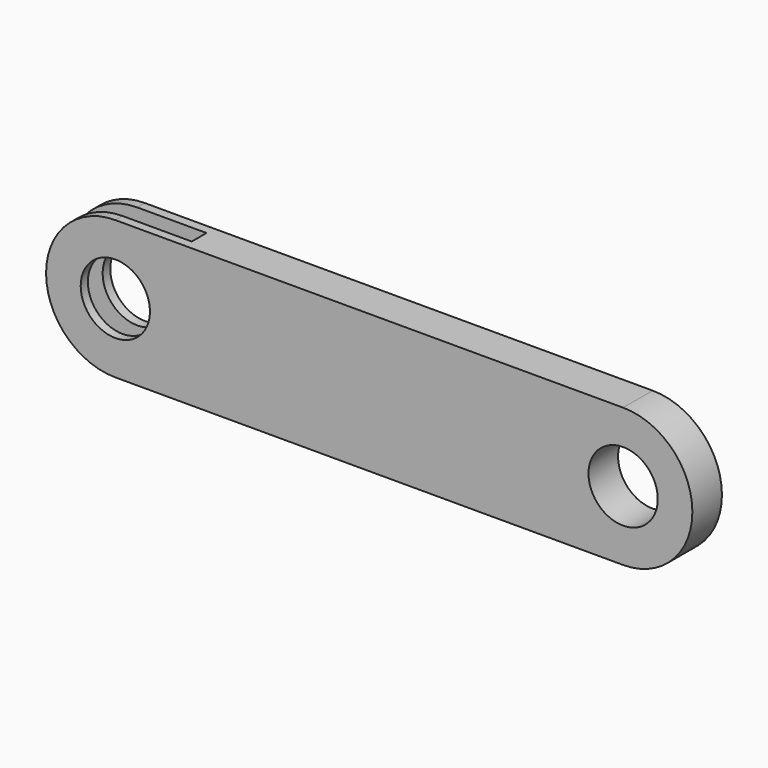
from build123d import *

# Parameters (mm, degrees)
F1_DEPTH = 8
F2_D     = 15
F3_D     = 15
F5_W     = 30
F5_H     = 4
F6_DEPTH = 30.001


with BuildPart() as f1:
    # F0 (on Front) → F1 (new body)
    with BuildSketch(Plane.XZ):
        with BuildLine():
            Line((110, 15), (0, 15))
            ThreePointArc((0, 15), (-15, 0), (0, -15))
            Line((0, -15), (110, -15))
            ThreePointArc((110, -15), (125, 0), (110, 15))
        make_face()
    extrude(amount=F1_DEPTH)

    # F2 (through all)
    with Locations(Plane(origin=(0, 0, 0), x_dir=(1, 0, 0), z_dir=(0, 1, 0))):
        with Locations((0, 0)):
            Hole(F2_D / 2)

    # F3 (through all)
    with Locations(Plane(origin=(0, 0, 0), x_dir=(1, 0, 0), z_dir=(0, 1, 0))):
        with Locations((110, 0)):
            Hole(F3_D / 2)

    # F5 (on offset) → F6 (cut, through all)
    with BuildSketch(Plane.XY.offset(15)):
        with Locations((0, -4.0625976841)):
            Rectangle(F5_W, F5_H)
    extrude(amount=-F6_DEPTH, mode=Mode.SUBTRACT)


solid = f1.part
